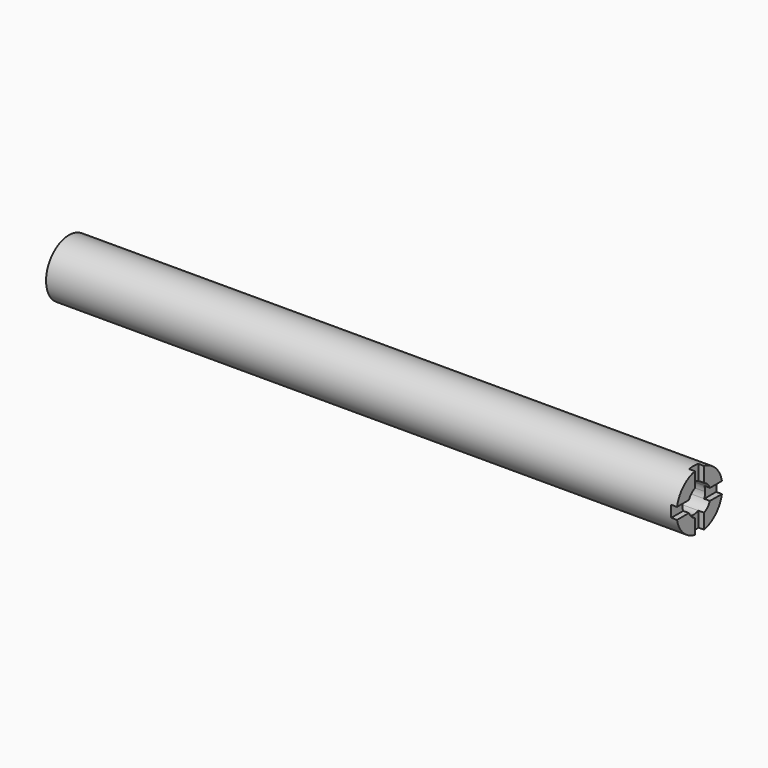
from build123d import *

# Parameters (mm, degrees)
F0_R     = 12.7
F1_DEPTH = 279.4
F3_DEPTH = 2.54
F4_DEPTH = 19.05


with BuildPart() as f1:
    # F0 (on Right) → F1 (new body)
    with BuildSketch(Plane.YZ):
        Circle(F0_R)
    extrude(amount=-F1_DEPTH)

    # F2 (on Right) → F3 (cut)
    with BuildSketch(Plane.YZ):
        with BuildLine():
            ThreePointArc((-2.54, 5.819871), (0, 6.35), (2.54, 5.819871))
            Line((2.54, 5.819871), (2.54, 13.439871))
            Line((2.54, 13.439871), (-2.54, 13.439871))
            Line((-2.54, 13.439871), (-2.54, 5.819871))
        make_face()
        with BuildLine():
            ThreePointArc((-5.819871, -2.54), (-6.35, 0), (-5.819871, 2.54))
            Line((-5.819871, 2.54), (-13.439871, 2.54))
            Line((-13.439871, 2.54), (-13.439871, -2.54))
            Line((-13.439871, -2.54), (-5.819871, -2.54))
        make_face()
        with BuildLine():
            Line((2.54, -13.439871), (2.54, -5.819871))
            ThreePointArc((2.54, -5.819871), (0, -6.35), (-2.54, -5.819871))
            Line((-2.54, -5.819871), (-2.54, -13.439871))
            Line((-2.54, -13.439871), (2.54, -13.439871))
        make_face()
        with BuildLine():
            ThreePointArc((5.819871, 2.54), (6.216055, 1.297366), (6.35, 0))
            ThreePointArc((6.35, 0), (6.216055, -1.297366), (5.819871, -2.54))
            Line((5.819871, -2.54), (13.439871, -2.54))
            Line((13.439871, -2.54), (13.439871, 2.54))
            Line((13.439871, 2.54), (5.819871, 2.54))
        make_face()
    extrude(amount=-F3_DEPTH, mode=Mode.SUBTRACT)

    # F2 (on Right) → F4 (cut)
    with BuildSketch(Plane.YZ):
        with BuildLine():
            Line((5.819871, -2.54), (5.819871, 2.54))
            ThreePointArc((5.819871, 2.54), (4.490128, 4.490128), (2.54, 5.819871))
            Line((2.54, 5.819871), (-2.54, 5.819871))
            ThreePointArc((-2.54, 5.819871), (-4.490128, 4.490128), (-5.819871, 2.54))
            Line((-5.819871, 2.54), (-5.819871, -2.54))
            ThreePointArc((-5.819871, -2.54), (-4.490128, -4.490128), (-2.54, -5.819871))
            Line((-2.54, -5.819871), (2.54, -5.819871))
            ThreePointArc((2.54, -5.819871), (4.490128, -4.490128), (5.819871, -2.54))
        make_face()
        with BuildLine():
            Line((-2.54, 5.819871), (2.54, 5.819871))
            ThreePointArc((2.54, 5.819871), (0, 6.35), (-2.54, 5.819871))
        make_face()
        with BuildLine():
            Line((-5.819871, -2.54), (-5.819871, 2.54))
            ThreePointArc((-5.819871, 2.54), (-6.35, 0), (-5.819871, -2.54))
        make_face()
        with BuildLine():
            ThreePointArc((-2.54, -5.819871), (0, -6.35), (2.54, -5.819871))
            Line((2.54, -5.819871), (-2.54, -5.819871))
        make_face()
        with BuildLine():
            ThreePointArc((5.819871, -2.54), (6.216055, -1.297366), (6.35, 0))
            ThreePointArc((6.35, 0), (6.216055, 1.297366), (5.819871, 2.54))
            Line((5.819871, 2.54), (5.819871, -2.54))
        make_face()
    extrude(amount=-F4_DEPTH, mode=Mode.SUBTRACT)


solid = f1.part
